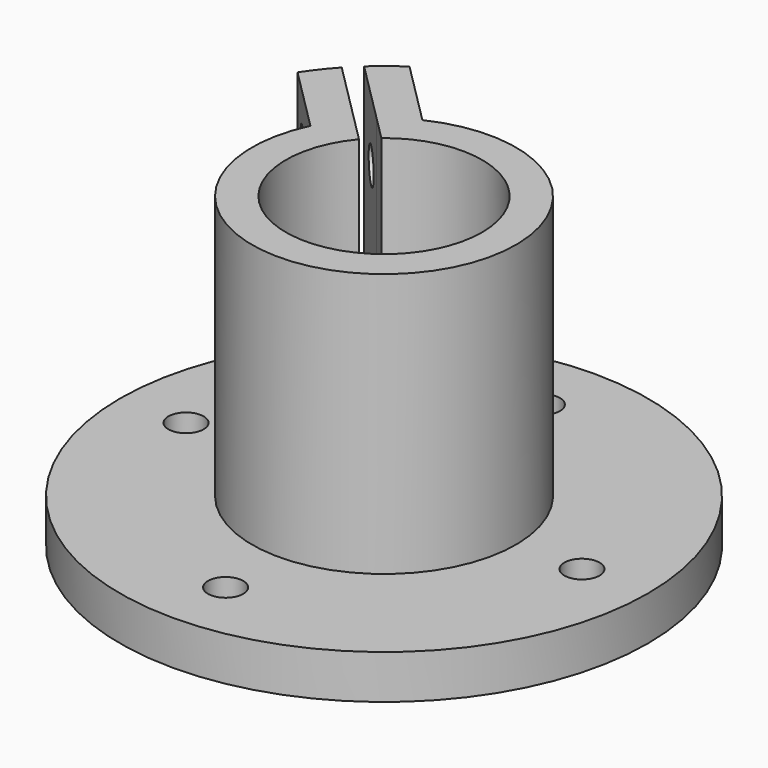
from build123d import *

# Parameters (mm, degrees)
F1_DEPTH = 35
F0_R     = 30
F0_R_2   = 2
F2_DEPTH = 5
F4_R     = 2
F5_DEPTH = 11
F6_DEPTH = 2


with BuildPart() as f1:
    # F0 (on Top) → F1 (new body)
    with BuildSketch(Plane.XY):
        with BuildLine():
            ThreePointArc((-7.1453609838, 8.5595745462), (4.7250251338, 10.0993384677), (11.15, 0))
            ThreePointArc((11.15, 0), (10.4880847772, -3.7845181605), (8.5809277655, -7.119703553))
            ThreePointArc((8.5809277655, -7.119703553), (7.8878989891, -7.880580533), (7.1276656329, -8.5743152861))
            ThreePointArc((7.1276656329, -8.5743152861), (-7.8923790008, -7.8760938103), (-8.5595745462, 7.1453609838))
            Line((-8.5595745462, 7.1453609838), (-11.2901120254, 9.8758984631))
            ThreePointArc((-11.2901120254, 9.8758984631), (-12.5294709258, 8.2469605504), (-13.5355339059, 6.4644660941))
            ThreePointArc((-13.5355339059, 6.4644660941), (10.6066017178, -10.6066017178), (-6.4644660941, 13.5355339059))
            ThreePointArc((-6.4644660941, 13.5355339059), (-8.2469605504, 12.5294709258), (-9.8758984631, 11.2901120254))
            Line((-9.8758984631, 11.2901120254), (-7.1453609838, 8.5595745462))
        make_face()
        with BuildLine():
            ThreePointArc((-13.5355339059, 6.4644660941), (-12.5294709258, 8.2469605504), (-11.2901120254, 9.8758984631))
            Line((-11.2901120254, 9.8758984631), (-18.3706285138, 16.9564149515))
            ThreePointArc((-18.3706285138, 16.9564149515), (-19.6773328655, 15.4208485922), (-20.8560419816, 13.7849741698))
            Line((-20.8560419816, 13.7849741698), (-13.5355339059, 6.4644660941))
        make_face()
        with BuildLine():
            Line((-16.9564149515, 18.3706285138), (-9.8758984631, 11.2901120254))
            ThreePointArc((-9.8758984631, 11.2901120254), (-8.2469605504, 12.5294709258), (-6.4644660941, 13.5355339059))
            Line((-6.4644660941, 13.5355339059), (-13.7849741698, 20.8560419816))
            ThreePointArc((-13.7849741698, 20.8560419816), (-15.4208485922, 19.6773328655), (-16.9564149515, 18.3706285138))
        make_face()
    extrude(amount=F1_DEPTH)

    # F0 (on Top) → F2 (join)
    with BuildSketch(Plane.XY):
        Circle(F0_R)
        with Locations((0, -22.5)):
            Circle(F0_R_2, mode=Mode.SUBTRACT)
        with Locations((-22.5, 0)):
            Circle(F0_R_2, mode=Mode.SUBTRACT)
        with BuildLine():
            Line((-13.7849741698, 20.8560419816), (-6.4644660941, 13.5355339059))
            ThreePointArc((-6.4644660941, 13.5355339059), (10.6066017178, -10.6066017178), (-13.5355339059, 6.4644660941))
            Line((-13.5355339059, 6.4644660941), (-20.8560419816, 13.7849741698))
            ThreePointArc((-20.8560419816, 13.7849741698), (-19.6773328655, 15.4208485922), (-18.3706285138, 16.9564149515))
            ThreePointArc((-18.3706285138, 16.9564149515), (-17.6776695297, 17.6776695297), (-16.9564149515, 18.3706285138))
            ThreePointArc((-16.9564149515, 18.3706285138), (-15.4208485922, 19.6773328655), (-13.7849741698, 20.8560419816))
        make_face(mode=Mode.SUBTRACT)
        with Locations((22.5, 0)):
            Circle(F0_R_2, mode=Mode.SUBTRACT)
        with Locations((0, 22.5)):
            Circle(F0_R_2, mode=Mode.SUBTRACT)
        with BuildLine():
            ThreePointArc((7.1276656329, -8.5743152861), (7.8878989891, -7.880580533), (8.5809277655, -7.119703553))
            Line((8.5809277655, -7.119703553), (7.1560256843, -5.7020870219))
            ThreePointArc((7.1560256843, -5.7020870219), (6.4700270479, -6.4700270479), (5.7020870219, -7.1560256843))
            Line((5.7020870219, -7.1560256843), (7.1276656329, -8.5743152861))
        make_face()
        with BuildLine():
            ThreePointArc((-8.5595745462, 7.1453609838), (-7.8842406102, 7.8842406102), (-7.1453609838, 8.5595745462))
            Line((-7.1453609838, 8.5595745462), (-9.8758984631, 11.2901120254))
            Line((-9.8758984631, 11.2901120254), (-16.9564149515, 18.3706285138))
            ThreePointArc((-16.9564149515, 18.3706285138), (-17.6776695297, 17.6776695297), (-18.3706285138, 16.9564149515))
            Line((-18.3706285138, 16.9564149515), (-11.2901120254, 9.8758984631))
            Line((-11.2901120254, 9.8758984631), (-8.5595745462, 7.1453609838))
        make_face()
    extrude(amount=F2_DEPTH)

    # F4 (on offset) → F5 (cut)
    with BuildSketch(Plane(origin=(-3.5355339059, -3.5355339059, 0), x_dir=(0.7071067812, -0.7071067812, 0), z_dir=(-0.7071067812, -0.7071067812, 0))):
        with Locations((-19.3185165258, 28)):
            Circle(F4_R)
        with Locations((-19.3185165258, 12)):
            Circle(F4_R)
    extrude(amount=-F5_DEPTH, mode=Mode.SUBTRACT)

    # F4 (on offset) → F6 (cut)
    with BuildSketch(Plane(origin=(-3.5355339059, -3.5355339059, 0), x_dir=(0.7071067812, -0.7071067812, 0), z_dir=(-0.7071067812, -0.7071067812, 0))):
        Polygon((-17.2400555567, 31.6), (-21.3969774949, 31.6), (-23.4754384639, 28), (-21.3969774949, 24.4), (-17.2400555567, 24.4), (-15.1615945876, 28), align=None)
        with Locations((-19.3185165258, 28)):
            Circle(F4_R, mode=Mode.SUBTRACT)
        Polygon((-17.2400555567, 15.6), (-21.3969774949, 15.6), (-23.4754384639, 12), (-21.3969774949, 8.4), (-17.2400555567, 8.4), (-15.1615945876, 12), align=None)
        with Locations((-19.3185165258, 12)):
            Circle(F4_R, mode=Mode.SUBTRACT)
    extrude(amount=-F6_DEPTH, mode=Mode.SUBTRACT)


solid = f1.part
